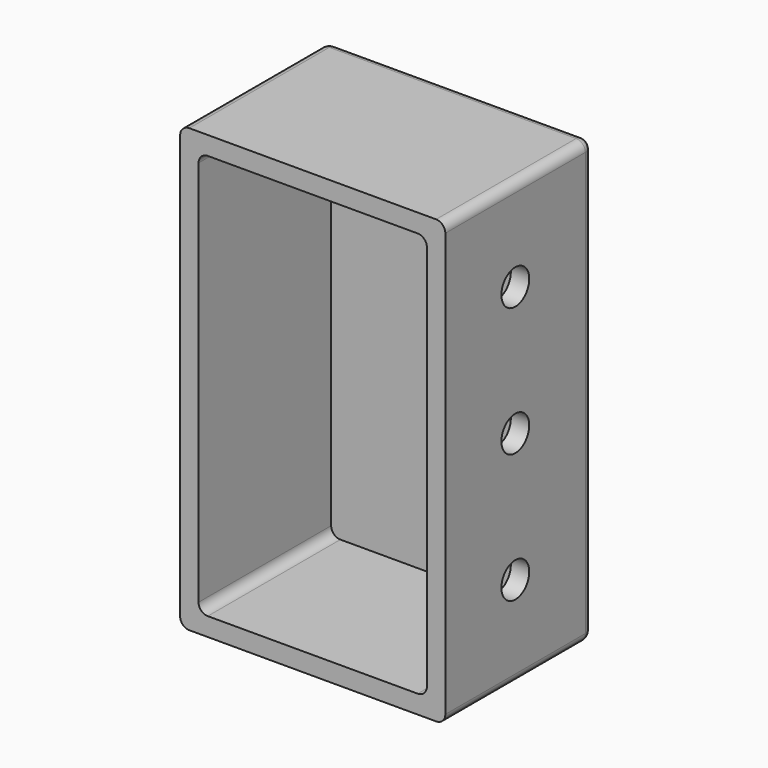
from build123d import *

# Parameters (mm, degrees)
F0_W     = 45.72
F0_H     = 76.2
F0_W_2   = 39.37
F0_H_2   = 69.85
F1_DEPTH = 31.75
F2_R     = 1.5875
F4_DEPTH = 3.175
F5_R     = 1.5875
F3_R     = 3
F6_DEPTH = 3.175


with BuildPart() as f1:
    # F0 (on Front) → F1 (new body)
    with BuildSketch(Plane.XZ):
        with Locations((1.461808, 0)):
            Rectangle(F0_W, F0_H)
        with Locations((1.461808, 0)):
            Rectangle(F0_W_2, F0_H_2, mode=Mode.SUBTRACT)
    extrude(amount=F1_DEPTH)

    # F2
    f2_edges = [f1.edges().sort_by_distance(p)[0] for p in [
        (24.321808, -15.875, -38.1),
        (24.321808, -15.875, 38.1),
        (-21.398192, -15.875, 38.1),
        (-21.398192, -15.875, -38.1),
        (-21.398192, 0, 0),
        (1.461808, 0, -38.1),
        (24.321808, 0, 0),
        (1.461808, 0, 38.1),
    ]]
    fillet(f2_edges, radius=F2_R)

    # F0 (on Front) → F4 (join)
    with BuildSketch(Plane.XZ):
        with Locations((1.461808, 0)):
            Rectangle(F0_W_2, F0_H_2)
    extrude(amount=F4_DEPTH)

    # F5
    f5_edges = [f1.edges().sort_by_distance(p)[0] for p in [
        (-18.223192, -17.4625, -34.925),
        (-18.223192, -17.4625, 34.925),
        (21.146808, -17.4625, -34.925),
        (21.146808, -17.4625, 34.925),
    ]]
    fillet(f5_edges, radius=F5_R)

    # F3 (on face) → F6 (cut, through all)
    with BuildSketch(Plane.YZ.offset(24.321808)):
        with Locations((-16.66875, -22.225)):
            Circle(F3_R)
        with Locations((-16.66875, 0)):
            Circle(F3_R)
        with Locations((-16.66875, 22.225)):
            Circle(F3_R)
    extrude(amount=-F6_DEPTH, mode=Mode.SUBTRACT)


solid = f1.part
